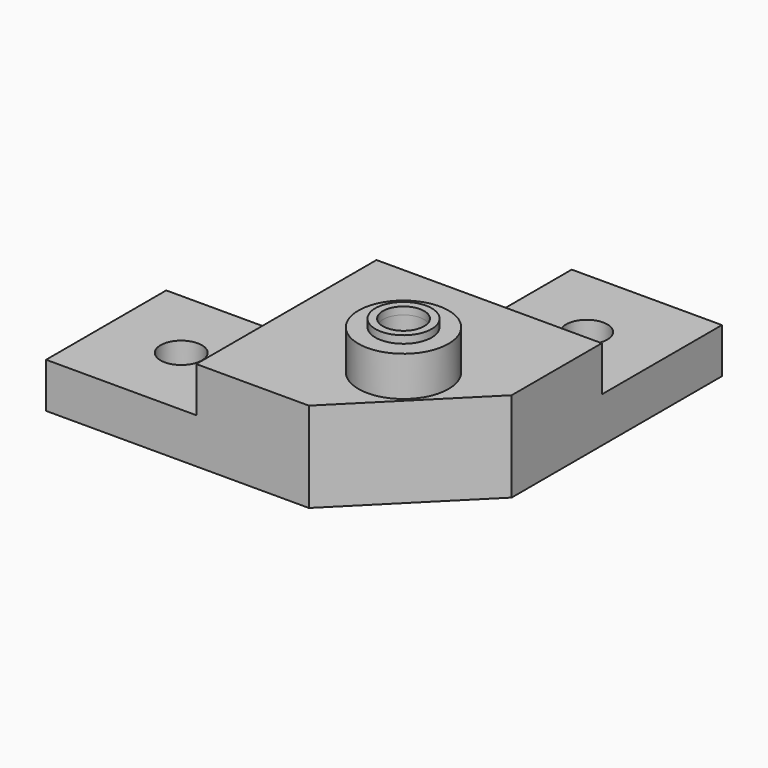
from build123d import *

# Parameters (mm, degrees)
PAD_DEPTH       = 6
SKETCH001_R     = 2.75
PAD001_DEPTH    = 6
SKETCH002_R     = 2.75
POCKET_DEPTH    = 12.001
SKETCH003_R     = 6
SKETCH003_R_2   = 2.75
PAD002_DEPTH    = 5.3
SKETCH004_R     = 3.75
SKETCH004_R_2   = 2.75
PAD003_DEPTH    = 1
POCKET001_DEPTH = 9


with BuildPart() as part:
    # Sketch → Pad (new body)
    with BuildSketch(Plane.XY):
        Polygon((0, 0), (30, 0), (30, -15), (15, -30), (0, -30), align=None)
    extrude(amount=PAD_DEPTH)

    # Sketch001 (on Face6 of Pad) → Pad001 (join)
    with BuildSketch(Plane(origin=(0, 0, 0), x_dir=(1, 0, 0), z_dir=(0, 0, -1))):
        Polygon((15, 30), (-20, 30), (-20, 10), (0, 10), (0, 0), (10, 0), (10, -20), (30, -20), (30, 15), align=None)
        with Locations((-10, 20)):
            Circle(SKETCH001_R, mode=Mode.SUBTRACT)
        with Locations((20, -10)):
            Circle(SKETCH001_R, mode=Mode.SUBTRACT)
    extrude(amount=PAD001_DEPTH)

    # Sketch002 (on Face1 of Pad001) → Pocket (cut, through all)
    with BuildSketch(Plane.XY.offset(6)):
        with Locations((18, -18)):
            Circle(SKETCH002_R)
    extrude(amount=-POCKET_DEPTH, mode=Mode.SUBTRACT)

    # Sketch003 (on Face1 of Pocket) → Pad002 (join)
    with BuildSketch(Plane.XY.offset(6)):
        with Locations((18, -18)):
            Circle(SKETCH003_R)
        with Locations((18, -18)):
            Circle(SKETCH003_R_2, mode=Mode.SUBTRACT)
    extrude(amount=PAD002_DEPTH)

    # Sketch004 (on Face15 of Pad002) → Pad003 (join)
    with BuildSketch(Plane.XY.offset(11.3)):
        with Locations((18, -18)):
            Circle(SKETCH004_R)
        with Locations((18, -18)):
            Circle(SKETCH004_R_2, mode=Mode.SUBTRACT)
    extrude(amount=PAD003_DEPTH)

    # Sketch005 (on Face10 of Pad003) → Pocket001 (cut)
    with BuildSketch(Plane(origin=(0, 0, -6), x_dir=(1, 0, 0), z_dir=(0, 0, -1))):
        Polygon((22.75, 18), (20.375, 22.113621), (15.625, 22.113621), (13.25, 18), (15.625, 13.886379), (20.375, 13.886379), align=None)
    extrude(amount=-POCKET001_DEPTH, mode=Mode.SUBTRACT)


solid = part.part
